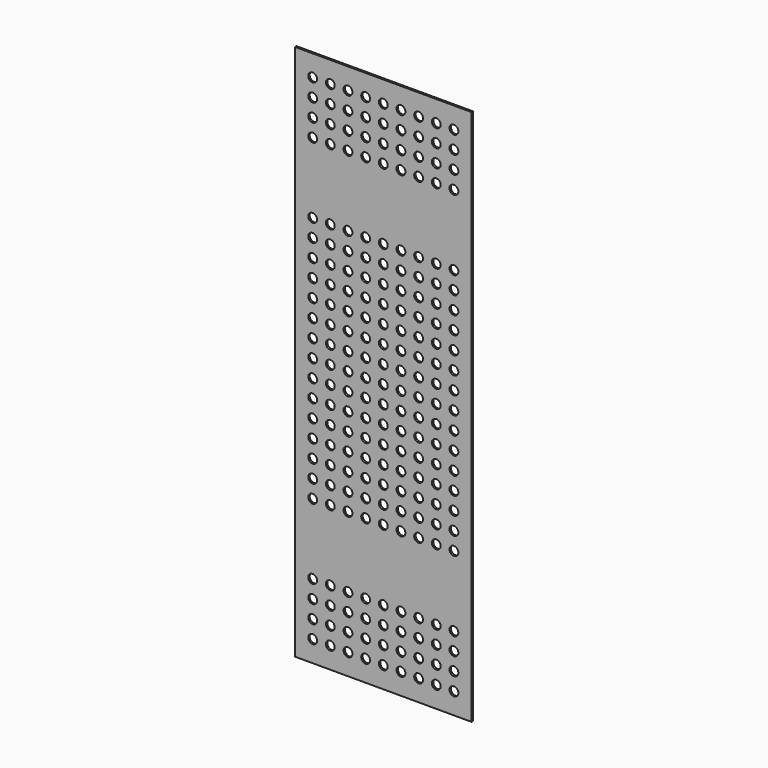
from build123d import *

# Parameters (mm, degrees)
F0_W     = 500
F0_H     = 1520
F0_R     = 12.5
F1_DEPTH = 5


with BuildPart() as f1:
    # F0 (on Front) → F1 (new body)
    with BuildSketch(Plane.XZ):
        Rectangle(F0_W, F0_H)
        with Locations((-200, -700)):
            Circle(F0_R, mode=Mode.SUBTRACT)
        with Locations((-200, -650)):
            Circle(F0_R, mode=Mode.SUBTRACT)
        with Locations((-200, -600)):
            Circle(F0_R, mode=Mode.SUBTRACT)
        with Locations((-150, -700)):
            Circle(F0_R, mode=Mode.SUBTRACT)
        with Locations((-150, -650)):
            Circle(F0_R, mode=Mode.SUBTRACT)
        with Locations((-150, -600)):
            Circle(F0_R, mode=Mode.SUBTRACT)
        with Locations((-200, -550)):
            Circle(F0_R, mode=Mode.SUBTRACT)
        with Locations((-150, -550)):
            Circle(F0_R, mode=Mode.SUBTRACT)
        with Locations((-100, -700)):
            Circle(F0_R, mode=Mode.SUBTRACT)
        with Locations((-100, -650)):
            Circle(F0_R, mode=Mode.SUBTRACT)
        with Locations((-100, -600)):
            Circle(F0_R, mode=Mode.SUBTRACT)
        with Locations((-50, -700)):
            Circle(F0_R, mode=Mode.SUBTRACT)
        with Locations((-50, -650)):
            Circle(F0_R, mode=Mode.SUBTRACT)
        with Locations((-50, -600)):
            Circle(F0_R, mode=Mode.SUBTRACT)
        with Locations((-100, -550)):
            Circle(F0_R, mode=Mode.SUBTRACT)
        with Locations((-50, -550)):
            Circle(F0_R, mode=Mode.SUBTRACT)
        with Locations((-200, -350)):
            Circle(F0_R, mode=Mode.SUBTRACT)
        with Locations((-200, -300)):
            Circle(F0_R, mode=Mode.SUBTRACT)
        with Locations((-200, -250)):
            Circle(F0_R, mode=Mode.SUBTRACT)
        with Locations((-200, -200)):
            Circle(F0_R, mode=Mode.SUBTRACT)
        with Locations((-150, -350)):
            Circle(F0_R, mode=Mode.SUBTRACT)
        with Locations((-150, -300)):
            Circle(F0_R, mode=Mode.SUBTRACT)
        with Locations((-150, -250)):
            Circle(F0_R, mode=Mode.SUBTRACT)
        with Locations((-150, -200)):
            Circle(F0_R, mode=Mode.SUBTRACT)
        with Locations((-200, -150)):
            Circle(F0_R, mode=Mode.SUBTRACT)
        with Locations((-200, -100)):
            Circle(F0_R, mode=Mode.SUBTRACT)
        with Locations((-200, -50)):
            Circle(F0_R, mode=Mode.SUBTRACT)
        with Locations((-150, -150)):
            Circle(F0_R, mode=Mode.SUBTRACT)
        with Locations((-150, -100)):
            Circle(F0_R, mode=Mode.SUBTRACT)
        with Locations((-150, -50)):
            Circle(F0_R, mode=Mode.SUBTRACT)
        with Locations((-100, -350)):
            Circle(F0_R, mode=Mode.SUBTRACT)
        with Locations((-100, -300)):
            Circle(F0_R, mode=Mode.SUBTRACT)
        with Locations((-100, -250)):
            Circle(F0_R, mode=Mode.SUBTRACT)
        with Locations((-100, -200)):
            Circle(F0_R, mode=Mode.SUBTRACT)
        with Locations((-50, -350)):
            Circle(F0_R, mode=Mode.SUBTRACT)
        with Locations((-50, -300)):
            Circle(F0_R, mode=Mode.SUBTRACT)
        with Locations((-50, -250)):
            Circle(F0_R, mode=Mode.SUBTRACT)
        with Locations((-50, -200)):
            Circle(F0_R, mode=Mode.SUBTRACT)
        with Locations((-100, -150)):
            Circle(F0_R, mode=Mode.SUBTRACT)
        with Locations((-100, -100)):
            Circle(F0_R, mode=Mode.SUBTRACT)
        with Locations((-100, -50)):
            Circle(F0_R, mode=Mode.SUBTRACT)
        with Locations((-50, -150)):
            Circle(F0_R, mode=Mode.SUBTRACT)
        with Locations((-50, -100)):
            Circle(F0_R, mode=Mode.SUBTRACT)
        with Locations((-50, -50)):
            Circle(F0_R, mode=Mode.SUBTRACT)
        with Locations((0, -700)):
            Circle(F0_R, mode=Mode.SUBTRACT)
        with Locations((50, -700)):
            Circle(F0_R, mode=Mode.SUBTRACT)
        with Locations((0, -650)):
            Circle(F0_R, mode=Mode.SUBTRACT)
        with Locations((0, -600)):
            Circle(F0_R, mode=Mode.SUBTRACT)
        with Locations((50, -650)):
            Circle(F0_R, mode=Mode.SUBTRACT)
        with Locations((50, -600)):
            Circle(F0_R, mode=Mode.SUBTRACT)
        with Locations((100, -700)):
            Circle(F0_R, mode=Mode.SUBTRACT)
        with Locations((100, -650)):
            Circle(F0_R, mode=Mode.SUBTRACT)
        with Locations((100, -600)):
            Circle(F0_R, mode=Mode.SUBTRACT)
        with Locations((0, -550)):
            Circle(F0_R, mode=Mode.SUBTRACT)
        with Locations((50, -550)):
            Circle(F0_R, mode=Mode.SUBTRACT)
        with Locations((100, -550)):
            Circle(F0_R, mode=Mode.SUBTRACT)
        with Locations((150, -700)):
            Circle(F0_R, mode=Mode.SUBTRACT)
        with Locations((150, -650)):
            Circle(F0_R, mode=Mode.SUBTRACT)
        with Locations((150, -600)):
            Circle(F0_R, mode=Mode.SUBTRACT)
        with Locations((200, -700)):
            Circle(F0_R, mode=Mode.SUBTRACT)
        with Locations((200, -650)):
            Circle(F0_R, mode=Mode.SUBTRACT)
        with Locations((200, -600)):
            Circle(F0_R, mode=Mode.SUBTRACT)
        with Locations((150, -550)):
            Circle(F0_R, mode=Mode.SUBTRACT)
        with Locations((200, -550)):
            Circle(F0_R, mode=Mode.SUBTRACT)
        with Locations((0, -350)):
            Circle(F0_R, mode=Mode.SUBTRACT)
        with Locations((0, -300)):
            Circle(F0_R, mode=Mode.SUBTRACT)
        with Locations((50, -350)):
            Circle(F0_R, mode=Mode.SUBTRACT)
        with Locations((50, -300)):
            Circle(F0_R, mode=Mode.SUBTRACT)
        with Locations((0, -250)):
            Circle(F0_R, mode=Mode.SUBTRACT)
        with Locations((0, -200)):
            Circle(F0_R, mode=Mode.SUBTRACT)
        with Locations((50, -250)):
            Circle(F0_R, mode=Mode.SUBTRACT)
        with Locations((50, -200)):
            Circle(F0_R, mode=Mode.SUBTRACT)
        with Locations((100, -350)):
            Circle(F0_R, mode=Mode.SUBTRACT)
        with Locations((100, -300)):
            Circle(F0_R, mode=Mode.SUBTRACT)
        with Locations((100, -250)):
            Circle(F0_R, mode=Mode.SUBTRACT)
        with Locations((100, -200)):
            Circle(F0_R, mode=Mode.SUBTRACT)
        with Locations((0, -150)):
            Circle(F0_R, mode=Mode.SUBTRACT)
        with Locations((0, -100)):
            Circle(F0_R, mode=Mode.SUBTRACT)
        with Locations((50, -150)):
            Circle(F0_R, mode=Mode.SUBTRACT)
        with Locations((50, -100)):
            Circle(F0_R, mode=Mode.SUBTRACT)
        with Locations((0, -50)):
            Circle(F0_R, mode=Mode.SUBTRACT)
        with Locations((50, -50)):
            Circle(F0_R, mode=Mode.SUBTRACT)
        with Locations((100, -150)):
            Circle(F0_R, mode=Mode.SUBTRACT)
        with Locations((100, -100)):
            Circle(F0_R, mode=Mode.SUBTRACT)
        with Locations((100, -50)):
            Circle(F0_R, mode=Mode.SUBTRACT)
        with Locations((150, -350)):
            Circle(F0_R, mode=Mode.SUBTRACT)
        with Locations((150, -300)):
            Circle(F0_R, mode=Mode.SUBTRACT)
        with Locations((150, -250)):
            Circle(F0_R, mode=Mode.SUBTRACT)
        with Locations((150, -200)):
            Circle(F0_R, mode=Mode.SUBTRACT)
        with Locations((200, -350)):
            Circle(F0_R, mode=Mode.SUBTRACT)
        with Locations((200, -300)):
            Circle(F0_R, mode=Mode.SUBTRACT)
        with Locations((200, -250)):
            Circle(F0_R, mode=Mode.SUBTRACT)
        with Locations((200, -200)):
            Circle(F0_R, mode=Mode.SUBTRACT)
        with Locations((150, -150)):
            Circle(F0_R, mode=Mode.SUBTRACT)
        with Locations((150, -100)):
            Circle(F0_R, mode=Mode.SUBTRACT)
        with Locations((150, -50)):
            Circle(F0_R, mode=Mode.SUBTRACT)
        with Locations((200, -150)):
            Circle(F0_R, mode=Mode.SUBTRACT)
        with Locations((200, -100)):
            Circle(F0_R, mode=Mode.SUBTRACT)
        with Locations((200, -50)):
            Circle(F0_R, mode=Mode.SUBTRACT)
        with Locations((-200, 0)):
            Circle(F0_R, mode=Mode.SUBTRACT)
        with Locations((-200, 50)):
            Circle(F0_R, mode=Mode.SUBTRACT)
        with Locations((-200, 100)):
            Circle(F0_R, mode=Mode.SUBTRACT)
        with Locations((-200, 150)):
            Circle(F0_R, mode=Mode.SUBTRACT)
        with Locations((-150, 0)):
            Circle(F0_R, mode=Mode.SUBTRACT)
        with Locations((-150, 50)):
            Circle(F0_R, mode=Mode.SUBTRACT)
        with Locations((-150, 100)):
            Circle(F0_R, mode=Mode.SUBTRACT)
        with Locations((-150, 150)):
            Circle(F0_R, mode=Mode.SUBTRACT)
        with Locations((-200, 200)):
            Circle(F0_R, mode=Mode.SUBTRACT)
        with Locations((-200, 250)):
            Circle(F0_R, mode=Mode.SUBTRACT)
        with Locations((-200, 300)):
            Circle(F0_R, mode=Mode.SUBTRACT)
        with Locations((-200, 350)):
            Circle(F0_R, mode=Mode.SUBTRACT)
        with Locations((-150, 200)):
            Circle(F0_R, mode=Mode.SUBTRACT)
        with Locations((-150, 250)):
            Circle(F0_R, mode=Mode.SUBTRACT)
        with Locations((-150, 300)):
            Circle(F0_R, mode=Mode.SUBTRACT)
        with Locations((-150, 350)):
            Circle(F0_R, mode=Mode.SUBTRACT)
        with Locations((-100, 0)):
            Circle(F0_R, mode=Mode.SUBTRACT)
        with Locations((-100, 50)):
            Circle(F0_R, mode=Mode.SUBTRACT)
        with Locations((-100, 100)):
            Circle(F0_R, mode=Mode.SUBTRACT)
        with Locations((-100, 150)):
            Circle(F0_R, mode=Mode.SUBTRACT)
        with Locations((-50, 0)):
            Circle(F0_R, mode=Mode.SUBTRACT)
        with Locations((-50, 50)):
            Circle(F0_R, mode=Mode.SUBTRACT)
        with Locations((-50, 100)):
            Circle(F0_R, mode=Mode.SUBTRACT)
        with Locations((-50, 150)):
            Circle(F0_R, mode=Mode.SUBTRACT)
        with Locations((-100, 200)):
            Circle(F0_R, mode=Mode.SUBTRACT)
        with Locations((-100, 250)):
            Circle(F0_R, mode=Mode.SUBTRACT)
        with Locations((-100, 300)):
            Circle(F0_R, mode=Mode.SUBTRACT)
        with Locations((-100, 350)):
            Circle(F0_R, mode=Mode.SUBTRACT)
        with Locations((-50, 200)):
            Circle(F0_R, mode=Mode.SUBTRACT)
        with Locations((-50, 250)):
            Circle(F0_R, mode=Mode.SUBTRACT)
        with Locations((-50, 300)):
            Circle(F0_R, mode=Mode.SUBTRACT)
        with Locations((-50, 350)):
            Circle(F0_R, mode=Mode.SUBTRACT)
        with Locations((-200, 550)):
            Circle(F0_R, mode=Mode.SUBTRACT)
        with Locations((-150, 550)):
            Circle(F0_R, mode=Mode.SUBTRACT)
        with Locations((-200, 600)):
            Circle(F0_R, mode=Mode.SUBTRACT)
        with Locations((-200, 650)):
            Circle(F0_R, mode=Mode.SUBTRACT)
        with Locations((-200, 700)):
            Circle(F0_R, mode=Mode.SUBTRACT)
        with Locations((-150, 600)):
            Circle(F0_R, mode=Mode.SUBTRACT)
        with Locations((-150, 650)):
            Circle(F0_R, mode=Mode.SUBTRACT)
        with Locations((-150, 700)):
            Circle(F0_R, mode=Mode.SUBTRACT)
        with Locations((-100, 550)):
            Circle(F0_R, mode=Mode.SUBTRACT)
        with Locations((-50, 550)):
            Circle(F0_R, mode=Mode.SUBTRACT)
        with Locations((-100, 600)):
            Circle(F0_R, mode=Mode.SUBTRACT)
        with Locations((-100, 650)):
            Circle(F0_R, mode=Mode.SUBTRACT)
        with Locations((-100, 700)):
            Circle(F0_R, mode=Mode.SUBTRACT)
        with Locations((-50, 600)):
            Circle(F0_R, mode=Mode.SUBTRACT)
        with Locations((-50, 650)):
            Circle(F0_R, mode=Mode.SUBTRACT)
        with Locations((-50, 700)):
            Circle(F0_R, mode=Mode.SUBTRACT)
        Circle(F0_R, mode=Mode.SUBTRACT)
        with Locations((0, 50)):
            Circle(F0_R, mode=Mode.SUBTRACT)
        with Locations((50, 0)):
            Circle(F0_R, mode=Mode.SUBTRACT)
        with Locations((50, 50)):
            Circle(F0_R, mode=Mode.SUBTRACT)
        with Locations((0, 100)):
            Circle(F0_R, mode=Mode.SUBTRACT)
        with Locations((0, 150)):
            Circle(F0_R, mode=Mode.SUBTRACT)
        with Locations((50, 100)):
            Circle(F0_R, mode=Mode.SUBTRACT)
        with Locations((50, 150)):
            Circle(F0_R, mode=Mode.SUBTRACT)
        with Locations((100, 0)):
            Circle(F0_R, mode=Mode.SUBTRACT)
        with Locations((100, 50)):
            Circle(F0_R, mode=Mode.SUBTRACT)
        with Locations((100, 100)):
            Circle(F0_R, mode=Mode.SUBTRACT)
        with Locations((100, 150)):
            Circle(F0_R, mode=Mode.SUBTRACT)
        with Locations((0, 200)):
            Circle(F0_R, mode=Mode.SUBTRACT)
        with Locations((0, 250)):
            Circle(F0_R, mode=Mode.SUBTRACT)
        with Locations((50, 200)):
            Circle(F0_R, mode=Mode.SUBTRACT)
        with Locations((50, 250)):
            Circle(F0_R, mode=Mode.SUBTRACT)
        with Locations((0, 300)):
            Circle(F0_R, mode=Mode.SUBTRACT)
        with Locations((0, 350)):
            Circle(F0_R, mode=Mode.SUBTRACT)
        with Locations((50, 300)):
            Circle(F0_R, mode=Mode.SUBTRACT)
        with Locations((50, 350)):
            Circle(F0_R, mode=Mode.SUBTRACT)
        with Locations((100, 200)):
            Circle(F0_R, mode=Mode.SUBTRACT)
        with Locations((100, 250)):
            Circle(F0_R, mode=Mode.SUBTRACT)
        with Locations((100, 300)):
            Circle(F0_R, mode=Mode.SUBTRACT)
        with Locations((100, 350)):
            Circle(F0_R, mode=Mode.SUBTRACT)
        with Locations((150, 0)):
            Circle(F0_R, mode=Mode.SUBTRACT)
        with Locations((150, 50)):
            Circle(F0_R, mode=Mode.SUBTRACT)
        with Locations((150, 100)):
            Circle(F0_R, mode=Mode.SUBTRACT)
        with Locations((150, 150)):
            Circle(F0_R, mode=Mode.SUBTRACT)
        with Locations((200, 0)):
            Circle(F0_R, mode=Mode.SUBTRACT)
        with Locations((200, 50)):
            Circle(F0_R, mode=Mode.SUBTRACT)
        with Locations((200, 100)):
            Circle(F0_R, mode=Mode.SUBTRACT)
        with Locations((200, 150)):
            Circle(F0_R, mode=Mode.SUBTRACT)
        with Locations((150, 200)):
            Circle(F0_R, mode=Mode.SUBTRACT)
        with Locations((150, 250)):
            Circle(F0_R, mode=Mode.SUBTRACT)
        with Locations((150, 300)):
            Circle(F0_R, mode=Mode.SUBTRACT)
        with Locations((150, 350)):
            Circle(F0_R, mode=Mode.SUBTRACT)
        with Locations((200, 200)):
            Circle(F0_R, mode=Mode.SUBTRACT)
        with Locations((200, 250)):
            Circle(F0_R, mode=Mode.SUBTRACT)
        with Locations((200, 300)):
            Circle(F0_R, mode=Mode.SUBTRACT)
        with Locations((200, 350)):
            Circle(F0_R, mode=Mode.SUBTRACT)
        with Locations((0, 550)):
            Circle(F0_R, mode=Mode.SUBTRACT)
        with Locations((50, 550)):
            Circle(F0_R, mode=Mode.SUBTRACT)
        with Locations((100, 550)):
            Circle(F0_R, mode=Mode.SUBTRACT)
        with Locations((0, 600)):
            Circle(F0_R, mode=Mode.SUBTRACT)
        with Locations((0, 650)):
            Circle(F0_R, mode=Mode.SUBTRACT)
        with Locations((50, 600)):
            Circle(F0_R, mode=Mode.SUBTRACT)
        with Locations((50, 650)):
            Circle(F0_R, mode=Mode.SUBTRACT)
        with Locations((0, 700)):
            Circle(F0_R, mode=Mode.SUBTRACT)
        with Locations((50, 700)):
            Circle(F0_R, mode=Mode.SUBTRACT)
        with Locations((100, 600)):
            Circle(F0_R, mode=Mode.SUBTRACT)
        with Locations((100, 650)):
            Circle(F0_R, mode=Mode.SUBTRACT)
        with Locations((100, 700)):
            Circle(F0_R, mode=Mode.SUBTRACT)
        with Locations((150, 550)):
            Circle(F0_R, mode=Mode.SUBTRACT)
        with Locations((200, 550)):
            Circle(F0_R, mode=Mode.SUBTRACT)
        with Locations((150, 600)):
            Circle(F0_R, mode=Mode.SUBTRACT)
        with Locations((150, 650)):
            Circle(F0_R, mode=Mode.SUBTRACT)
        with Locations((150, 700)):
            Circle(F0_R, mode=Mode.SUBTRACT)
        with Locations((200, 600)):
            Circle(F0_R, mode=Mode.SUBTRACT)
        with Locations((200, 650)):
            Circle(F0_R, mode=Mode.SUBTRACT)
        with Locations((200, 700)):
            Circle(F0_R, mode=Mode.SUBTRACT)
    extrude(amount=F1_DEPTH)


solid = f1.part
